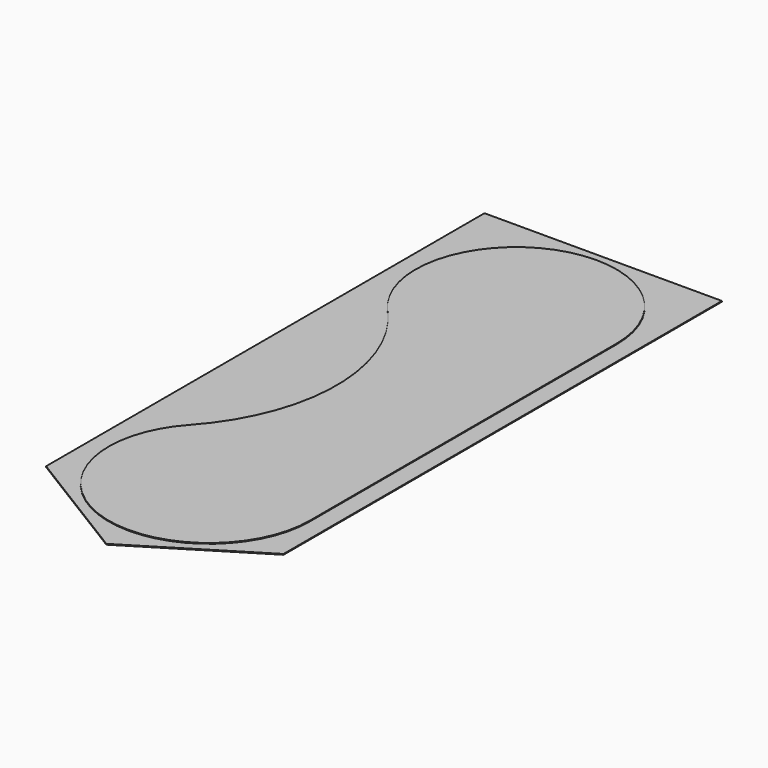
from build123d import *

# Parameters (mm, degrees)
F2_DEPTH = 25.4
F3_DEPTH = 12.7


with BuildPart() as f2:
    # F0 (on Top) → F2 (new body)
    with BuildSketch(Plane.XY):
        with BuildLine():
            ThreePointArc((-2914.395653, -2070.055608), (-2282.591149, -4763.36037), (0, -3200.4))
            Line((0, -3200.4), (0, 3200.4))
            ThreePointArc((0, 3200.4), (-2282.591149, 4763.36037), (-2914.395653, 2070.055608))
            ThreePointArc((-2914.395653, 2070.055608), (-2111.5274, 0), (-2914.395653, -2070.055608))
        make_face()
    extrude(amount=F2_DEPTH)

    # F1 (on Top) → F3 (join)
    with BuildSketch(Plane.XY):
        Polygon((304.8, 5017.175964), (-3657.6, 5017.175964), (-3657.6, -4126.824036), (-1676.4, -5346.024036), (304.8, -4126.824036), align=None)
    extrude(amount=F3_DEPTH)


solid = f2.part
